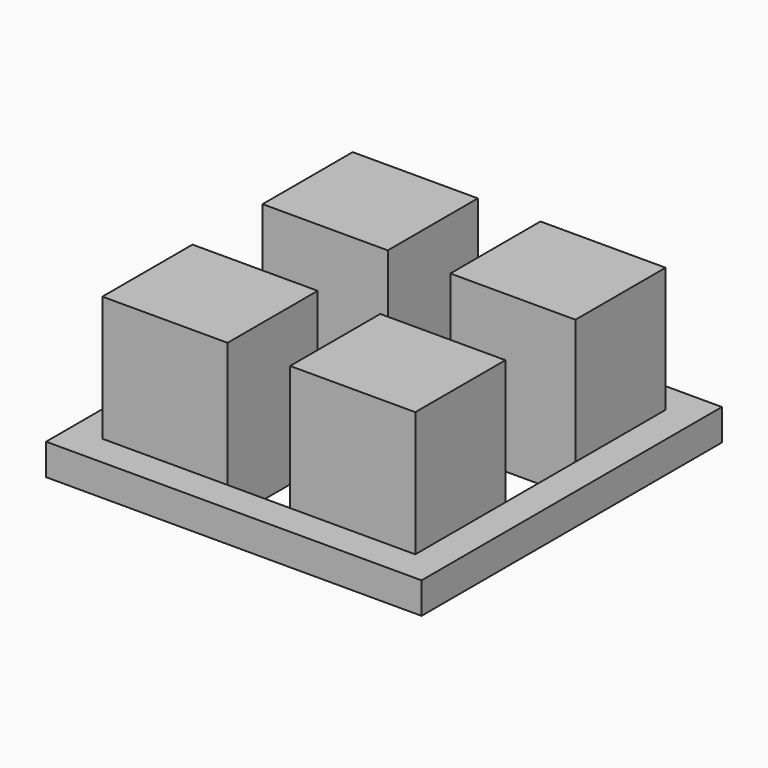
from build123d import *

# Parameters (mm, degrees)
SKETCH_W           = 60
SKETCH_H           = 60
PAD_DEPTH          = 5
COPYSKETCH001_W    = 50
COPYSKETCH001_H    = 50
POCKET_DEPTH       = 11
COPYSKETCH002001_W = 20
COPYSKETCH002001_H = 18
PAD001_DEPTH       = 25


with BuildPart() as part:
    # Sketch → Pad (new body)
    with BuildSketch(Plane.XY):
        with Locations((22.847713, -14.499916)):
            Rectangle(SKETCH_W, SKETCH_H)
    extrude(amount=PAD_DEPTH)

    # CopySketch001 → Pocket (cut)
    with BuildSketch(Plane(origin=(0, 0, 0), x_dir=(1, 0, 0), z_dir=(0, 0, -1))):
        with Locations((22.847713, 14.499916)):
            Rectangle(COPYSKETCH001_W, COPYSKETCH001_H)
    extrude(amount=-POCKET_DEPTH, mode=Mode.SUBTRACT)

    # CopySketch002001 → Pad001 (join)
    with BuildSketch(Plane(origin=(0, 0, 0), x_dir=(1, 0, 0), z_dir=(0, 0, -1))):
        with Locations((7.847713, 30.499916)):
            Rectangle(COPYSKETCH002001_W, COPYSKETCH002001_H)
        with Locations((37.847713, 30.499916)):
            Rectangle(COPYSKETCH002001_W, COPYSKETCH002001_H)
        with Locations((37.847713, -1.500084)):
            Rectangle(COPYSKETCH002001_W, COPYSKETCH002001_H)
        with Locations((7.847713, -1.500084)):
            Rectangle(COPYSKETCH002001_W, COPYSKETCH002001_H)
    extrude(amount=-PAD001_DEPTH)


solid = part.part
